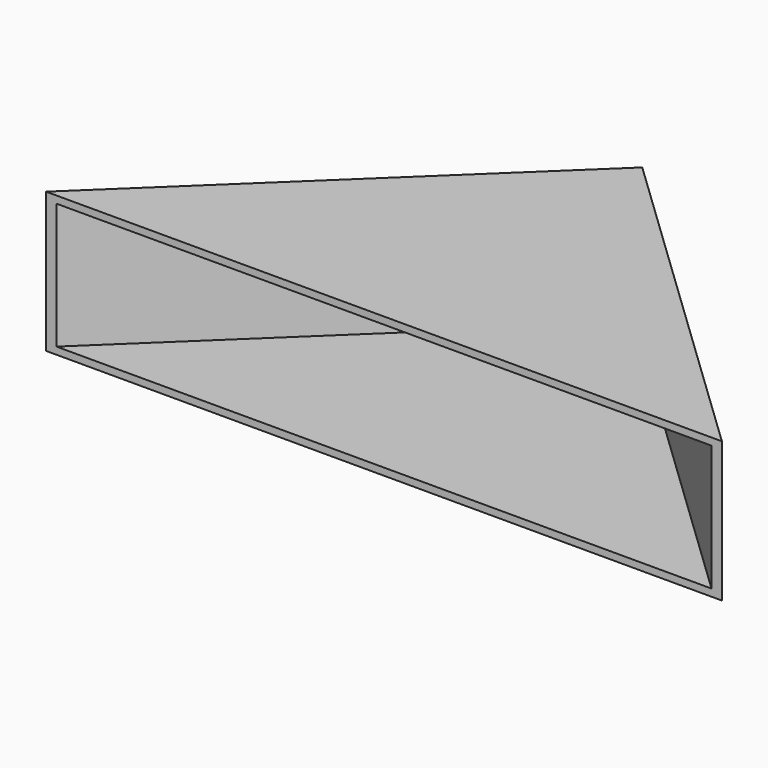
from build123d import *

# Parameters (mm, degrees)
F1_DEPTH = 2
F3_DEPTH = 35
F5_DEPTH = 2


with BuildPart() as f1:
    # F0 (on Top) → F1 (new body)
    with BuildSketch(Plane.XY):
        Polygon((-94, 0), (94, 0), (0, 89.7997772826), align=None)
    extrude(amount=F1_DEPTH)

    # F2 (on face) → F3 (join)
    with BuildSketch(Plane.XY.offset(2)):
        Polygon((-91.1046698793, 0), (0, 87.0338198358), (91.1046698793, 0), (94, 0), (0, 89.7997772826), (-94, 0), align=None)
    extrude(amount=F3_DEPTH)

    # F4 (on face) → F5 (join)
    with BuildSketch(Plane.XY.offset(37)):
        Polygon((-91.1046698793, 0), (91.1046698793, 0), (0, 87.0338198358), align=None)
        Polygon((91.1046698793, 0), (94, 0), (0, 89.7997772826), (-94, 0), (-91.1046698793, 0), (0, 87.0338198358), align=None)
    extrude(amount=F5_DEPTH)


solid = f1.part
